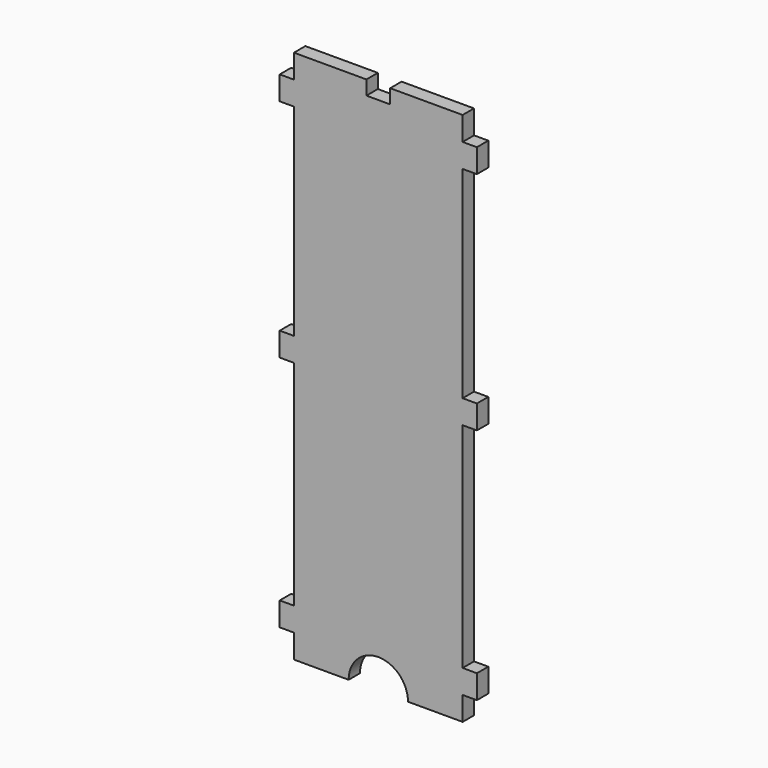
from build123d import *

# Parameters (mm, degrees)
F0_W      = 142.05
F0_H      = 460
F1_DEPTH  = 12
F2_W      = 10
F2_H      = 20
F3_DEPTH  = 12
F4_DEPTH  = 25
F5_DEPTH  = 2
F7_DEPTH  = 25
F8_DEPTH  = 10
F9_DEPTH  = 2
F10_DEPTH = 2


with BuildPart() as f1:
    # F0 (on Front) → F1 (new body)
    with BuildSketch(Plane.XZ):
        with Locations((71.025, 230)):
            Rectangle(F0_W, F0_H)
    extrude(amount=F1_DEPTH)

    # F2 (on face) → F3 (join)
    with BuildSketch(Plane.XZ.offset(12)):
        with Locations((-5, 420)):
            Rectangle(F2_W, F2_H)
        with Locations((147.05, 420)):
            Rectangle(F2_W, F2_H)
        with Locations((-5, 230)):
            Rectangle(F2_W, F2_H)
        with Locations((147.05, 230)):
            Rectangle(F2_W, F2_H)
        with Locations((-5, 30)):
            Rectangle(F2_W, F2_H)
        with Locations((147.05, 30)):
            Rectangle(F2_W, F2_H)
    extrude(amount=-F3_DEPTH)

    # F2 (on face) → F4 (cut)
    with BuildSketch(Plane.XZ.offset(12)):
        Polygon((61.025, 480), (61.025, 460), (71.025, 460), (81.025, 460), (81.025, 480), align=None)
        Polygon((71.025, 460), (61.025, 460), (61.025, 440), (81.025, 440), (81.025, 460), align=None)
    extrude(amount=-F4_DEPTH, mode=Mode.SUBTRACT)

    # F5 (cut): a face of the model
    f5_faces = [f1.faces().sort_by_distance(p)[0] for p in [
        (71.025, -6, 440),
    ]]
    extrude(f5_faces, amount=-F5_DEPTH, mode=Mode.SUBTRACT)

    # F6 (on face) → F7 (cut)
    with BuildSketch(Plane.XZ.offset(12)):
        with BuildLine():
            Line((46.025, 0), (96.025, 0))
            ThreePointArc((96.025, 0), (71.025, 25), (46.025, 0))
        make_face()
    extrude(amount=-F7_DEPTH, mode=Mode.SUBTRACT)

    # F8 (cut): faces of the model
    f8_faces = [f1.faces().sort_by_distance(p)[0] for p in [
        (30.5125, -6, 460),
        (111.5375, -6, 460),
    ]]
    extrude(f8_faces, amount=-F8_DEPTH, mode=Mode.SUBTRACT)

    # F9 (add): faces of the model
    f9_faces = [f1.faces().sort_by_distance(p)[0] for p in [
        (152.05, -6, 420),
        (152.05, -6, 230),
        (152.05, -6, 30),
    ]]
    extrude(f9_faces, amount=F9_DEPTH)

    # F10 (add): faces of the model
    f10_faces = [f1.faces().sort_by_distance(p)[0] for p in [
        (-10, -6, 420),
        (-10, -6, 230),
        (-10, -6, 30),
    ]]
    extrude(f10_faces, amount=F10_DEPTH)


solid = f1.part
